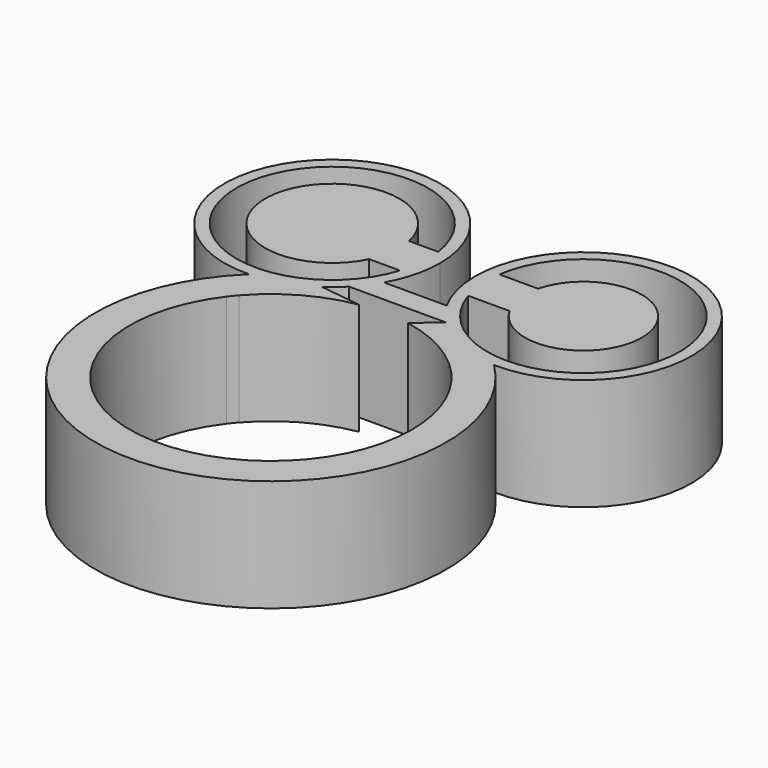
from build123d import *

# Parameters (mm, degrees)
F1_DEPTH = 25.4


with BuildPart() as f1:
    # F0 (on Top) → F1 (new body)
    with BuildSketch(Plane.XY):
        with BuildLine():
            Line((-22.7405323331, 20.825406216), (-0.8586310688, 20.825406216))
            ThreePointArc((-0.8586310688, 20.825406216), (6.880969277, 15.4503564659), (16.0753957368, 13.3875682063))
            ThreePointArc((16.0753957368, 13.3875682063), (29.4611855482, 58.919204895), (-4.6733289298, 25.9473346148))
            Line((-4.6733289298, 25.9473346148), (-18.9072371836, 25.9473346148))
            ThreePointArc((-18.9072371836, 25.9473346148), (-20.6557736861, 23.2605546469), (-22.7405323331, 20.825406216))
        make_face()
        with BuildLine():
            Line((-4.074172196, 31.276611248), (5.3000610526, 31.276611248))
            ThreePointArc((5.3000610526, 31.276611248), (29.8596069303, 39.7836827175), (3.9026769502, 41.1176035228))
            Line((3.9026769502, 41.1176035228), (-4.8740654088, 41.1176035228))
            ThreePointArc((-4.8740654088, 41.1176035228), (38.5394206446, 39.6933237531), (-4.074172196, 31.276611248))
        make_face(mode=Mode.SUBTRACT)
        with BuildLine():
            ThreePointArc((16.0753957368, 13.3875682063), (6.880969277, 15.4503564659), (-0.8586310688, 20.825406216))
            add(Edge.make_bspline(
                [(-0.8586310688, 20.825406216), (-2.5240231668, 19.3591679921), (-4.1929321502, 17.8742861418), (-5.8583242482, 16.4080479179)],
                knots=[0, 0, 0, 0, 6.6715804891, 6.6715804891, 6.6715804891, 6.6715804891], degree=3))
            ThreePointArc((-5.8583242482, 16.4080479179), (3.9151097731, 12.8482919208), (12.0322344025, 6.3441268647))
            ThreePointArc((12.0322344025, 6.3441268647), (18.1171546169, -3.6003747315), (20.2392006789, -15.0640690106))
            ThreePointArc((20.2392006789, -15.0640690106), (-21.9733260445, -45.4262327994), (-37.3311527073, 4.2516854592))
            Line((-37.3311527073, 4.2516854592), (-37.3278835894, 4.2560080603))
            ThreePointArc((-37.3278835894, 4.2560080603), (-36.6329417658, 5.1419251681), (-35.9072869397, 6.0028655455))
            Line((-35.9072869397, 6.0028655455), (-35.6296809614, 13.7535365688))
            Line((-35.6296809614, 13.7535365688), (-35.6296809614, 13.8922298692))
            ThreePointArc((-35.6296809614, 13.8922298692), (-36.4637697206, 13.7468983535), (-37.3023869671, 13.6305092571))
            ThreePointArc((-37.3023869671, 13.6305092571), (-38.4351388964, 13.5198900463), (-39.5718093034, 13.4620633301))
            ThreePointArc((-39.5718093034, 13.4620633301), (-11.8396544486, -54.8857893795), (16.0753957368, 13.3875682063))
        make_face()
        with BuildLine():
            ThreePointArc((-26.4154058509, 17.7366006093), (-24.5020388289, 19.1906661922), (-22.7405323331, 20.825406216))
            ThreePointArc((-22.7405323331, 20.825406216), (-20.6557736861, 23.2605546469), (-18.9072371836, 25.9473346148))
            ThreePointArc((-18.9072371836, 25.9473346148), (-16.5723511184, 31.7336342787), (-15.7768131077, 37.9223397985))
            ThreePointArc((-15.7768131077, 37.9223397985), (-57.7858721681, 54.9847763835), (-39.5718093034, 13.4620633301))
            ThreePointArc((-39.5718093034, 13.4620633301), (-38.4351388964, 13.5198900463), (-37.3023869671, 13.6305092571))
            ThreePointArc((-37.3023869671, 13.6305092571), (-36.4637697206, 13.7468983535), (-35.6296809614, 13.8922298692))
            ThreePointArc((-35.6296809614, 13.8922298692), (-30.824386887, 15.3394691933), (-26.4154058509, 17.7366006093))
        make_face()
        with BuildLine():
            Line((-18.7522749117, 41.1176035228), (-25.3777490801, 41.1176035228))
            ThreePointArc((-25.3777490801, 41.1176035228), (-55.3446038512, 39.7472014134), (-26.5671910234, 31.276611248))
            Line((-26.5671910234, 31.276611248), (-19.5572386057, 31.276611248))
            ThreePointArc((-19.5572386057, 31.276611248), (-61.9043737101, 39.6938980156), (-18.7522749117, 41.1176035228))
        make_face(mode=Mode.SUBTRACT)
        with BuildLine():
            add(Edge.make_bspline(
                [(-26.4154058509, 17.7366006093), (-23.2943159144, 17.3327680401), (-20.182467132, 16.9278880432), (-17.0613771955, 16.524055474)],
                knots=[0, 0, 0, 0, 9.432291227, 9.432291227, 9.432291227, 9.432291227], degree=3))
            ThreePointArc((-26.4154058509, 17.7366006093), (-30.824386887, 15.3394691933), (-35.6296809614, 13.8922298692))
            Line((-35.6296809614, 13.8922298692), (-35.6296809614, 13.7535365688))
            Line((-35.6296809614, 13.7535365688), (-35.9072869397, 6.0028655455))
            ThreePointArc((-35.9072869397, 6.0028655455), (-27.3973886277, 12.8989581712), (-17.0613771955, 16.524055474))
        make_face()
    extrude(amount=F1_DEPTH)


solid = f1.part
